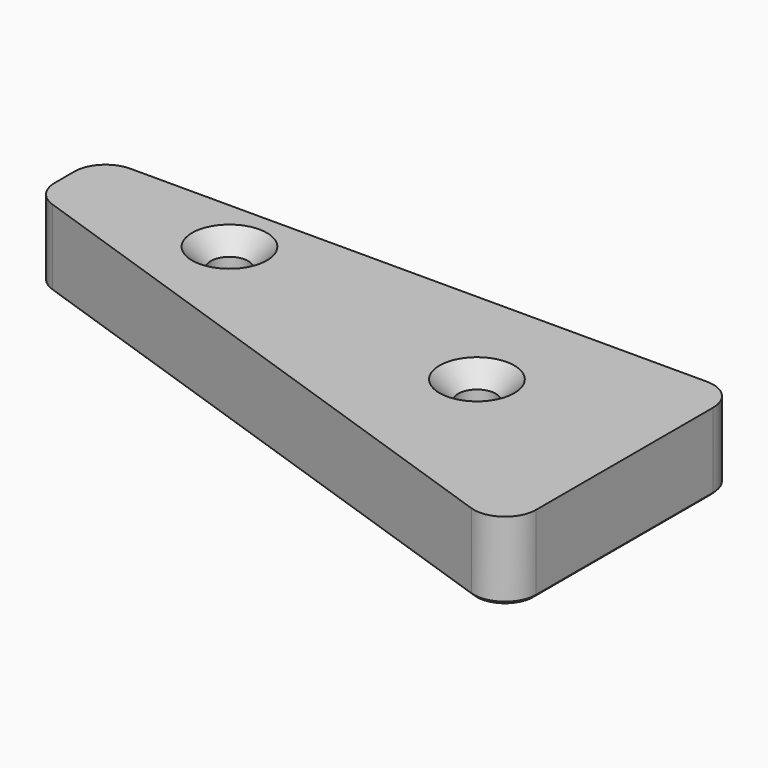
from build123d import *

# Parameters (mm, degrees)
F1_DEPTH       = 15.875
F3_D           = 7.62
F3_CSINK_D     = 15.24
F3_CSINK_ANGLE = 90
F4_R           = 6.35
F5_SIZE        = 0.635


with BuildPart() as f1:
    # F0 (on Top) → F1 (new body)
    with BuildSketch(Plane.XY):
        Polygon((130.175, 0), (0, 0), (0, -15.875), (130.175, -60.325), align=None)
    extrude(amount=F1_DEPTH)

    # F3 (through all)
    with Locations(Plane.XY.offset(15.875)):
        with Locations((35.439426, -11.131202), (94.735574, -22.225)):
            CounterSinkHole(F3_D / 2, F3_CSINK_D / 2, counter_sink_angle=F3_CSINK_ANGLE)

    # F4
    f4_edges = [f1.edges().sort_by_distance(p)[0] for p in [
        (0, -15.875, 7.9375),
        (0, 0, 7.9375),
        (130.175, -60.325, 7.9375),
        (130.175, 0, 7.9375),
    ]]
    fillet(f4_edges, radius=F4_R)

    # F5
    f5_edges = [f1.edges().sort_by_distance(p)[0] for p in [
        (65.0875, 0, 0),
        (128.315128, -1.859872, 0),
        (1.859872, -1.859872, 0),
        (130.175, -28.898358, 0),
        (0, -8.84165, 0),
        (127.519085, -56.611619, 0),
        (1.185096, -15.027386, 0),
        (63.035537, -37.39933, 0),
        (90.925574, -22.225, 0),
        (31.629426, -11.131202, 0),
    ]]
    chamfer(f5_edges, length=F5_SIZE)


solid = f1.part
